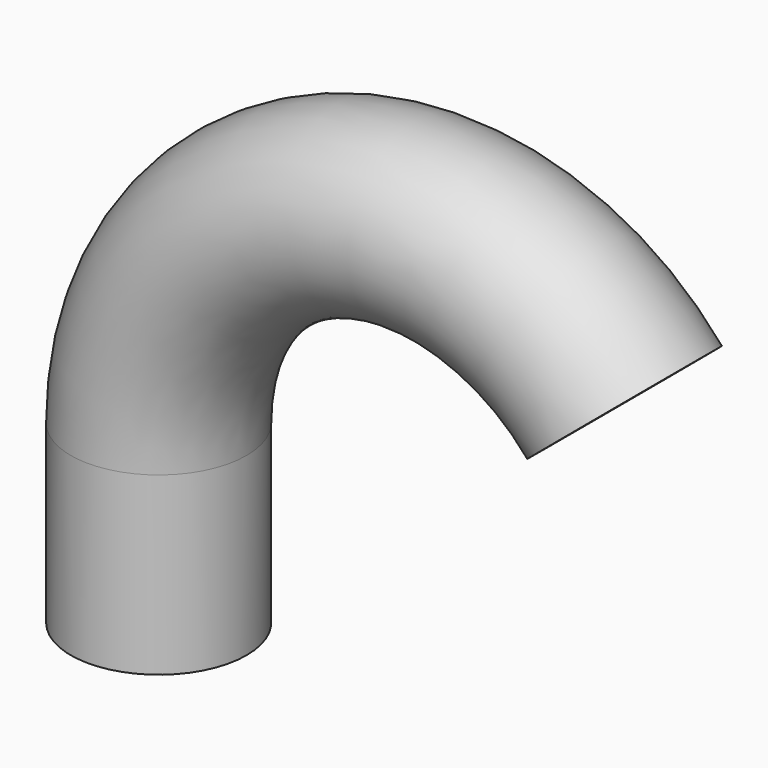
from build123d import *

# Parameters (mm, degrees)
F0_R     = 12.7
F1_ANGLE = 140
F2_DEPTH = 25.4
F3_T     = -2.54


with BuildPart() as f1:
    # F0 (on Top) → F1 (revolve)
    with BuildSketch(Plane.XY):
        Circle(F0_R)
    revolve(axis=Axis((38.1, -3.6203619093, 0), (0, 1, 0)), revolution_arc=F1_ANGLE)

    # F2 (add): a face of the model
    f2_faces = [f1.faces().sort_by_distance(p)[0] for p in [
        (0, 0, 0),
    ]]
    extrude(f2_faces, amount=F2_DEPTH)

    # F3
    f3_openings = [f1.faces().sort_by_distance(p)[0] for p in [
        (0, 0, -25.4),
        (67.286293, 0, 24.490208),
    ]]
    offset(amount=F3_T, openings=f3_openings)


solid = f1.part
